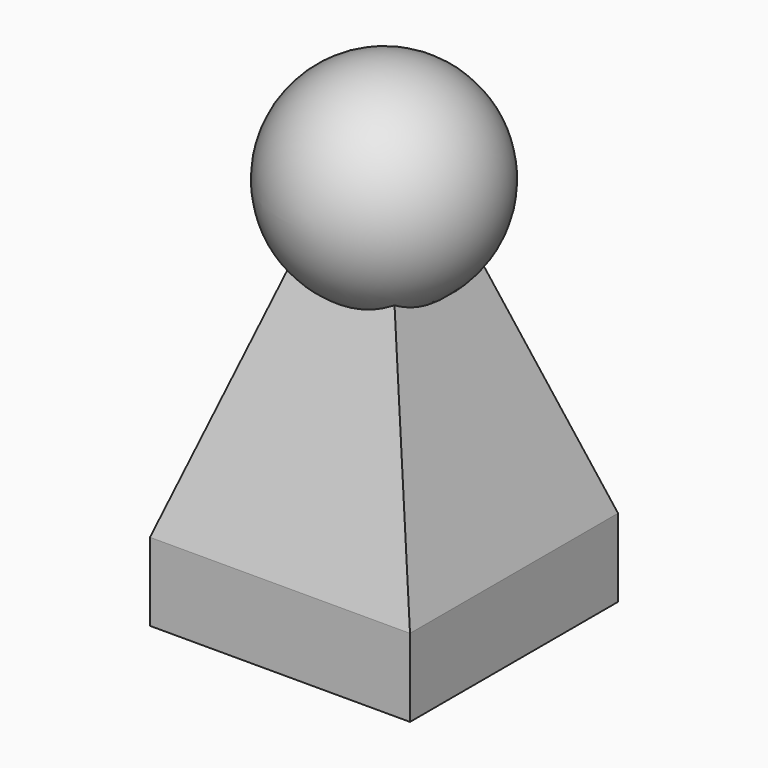
from build123d import *

# Parameters (mm, degrees)
F0_W      = 15.875
F0_H      = 15.875
F1_DEPTH  = 4.7625
F1_FACE_W = 15.875
F1_FACE_H = 15.875
F3_W      = 6.35
F3_H      = 6.35


with BuildPart() as f1:
    # F0 (on Top) → F1 (new body)
    with BuildSketch(Plane.XY):
        Rectangle(F0_W, F0_H)
    extrude(amount=F1_DEPTH)

    # F1_face (on face) → F4 section 0
    with BuildSketch(Plane.XY.offset(4.7625)):
        Rectangle(F1_FACE_W, F1_FACE_H)
    # F3 (on offset) → F4 section 1
    with BuildSketch(Plane.XY.offset(19.05)):
        Rectangle(F3_W, F3_H)
    loft()

    # F6 (on offset) → F7 (revolve)
    with BuildSketch(Plane.XY.offset(23.368)):
        with BuildLine():
            Line((0, -6.35), (0, 6.35))
            ThreePointArc((0, 6.35), (-6.35, 0), (0, -6.35))
        make_face()
    revolve(axis=Axis((0, 0, 23.368), (0, -1, 0)))


solid = f1.part
